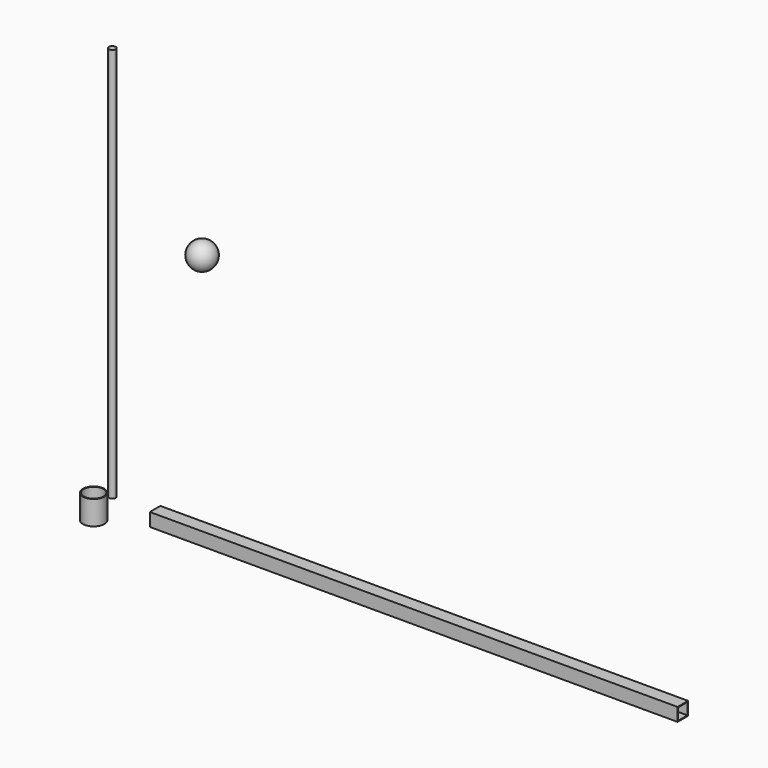
from build123d import *

# Parameters (mm, degrees)
F4_W     = 6.35
F4_H     = 6.35
F4_W_2   = 5.6388
F4_H_2   = 5.6388
F5_DEPTH = 253.98
F6_R     = 1.5875
F7_DEPTH = 190.12
F8_R     = 5.159375
F8_R_2   = 4.803775
F9_DEPTH = 11.6


with BuildPart() as f3:
    # F2 (on Right) → F3 (revolve)
    with BuildSketch(Plane.YZ):
        with BuildLine():
            Line((28.5856276751, 98.9358499646), (28.5856276751, 105.2758499646))
            ThreePointArc((28.5856276751, 105.2758499646), (22.2963222105, 99.7359979346), (26.9981276751, 92.7978174012))
            Line((26.9981276751, 92.7978174012), (26.9981276751, 98.9358499646))
            Line((26.9981276751, 98.9358499646), (28.5856276751, 98.9358499646))
        make_face()
    revolve(axis=Axis((0, 28.5856276751, 102.1058499646), (0, 0, 1)))


with BuildPart() as f5:
    # F4 (on Right) → F5 (new body)
    with BuildSketch(Plane.YZ):
        with Locations((0.3399441484, -0.3035154659)):
            Rectangle(F4_W, F4_H)
        with Locations((0.3399441484, -0.3035154659)):
            Rectangle(F4_W_2, F4_H_2, mode=Mode.SUBTRACT)
    extrude(amount=F5_DEPTH)


with BuildPart() as f7:
    # F6 (on Top) → F7 (new body)
    with BuildSketch(Plane.XY):
        with Locations((-22.1857912838, 2.3767193779)):
            Circle(F6_R)
    extrude(amount=F7_DEPTH)


with BuildPart() as f9:
    # F8 (on Top) → F9 (new body)
    with BuildSketch(Plane.XY):
        with Locations((-15.8061217517, -16.8869160116)):
            Circle(F8_R)
        with Locations((-15.8061217517, -16.8869160116)):
            Circle(F8_R_2, mode=Mode.SUBTRACT)
    extrude(amount=F9_DEPTH)


solid = Compound([f3.part, f5.part, f7.part, f9.part])
